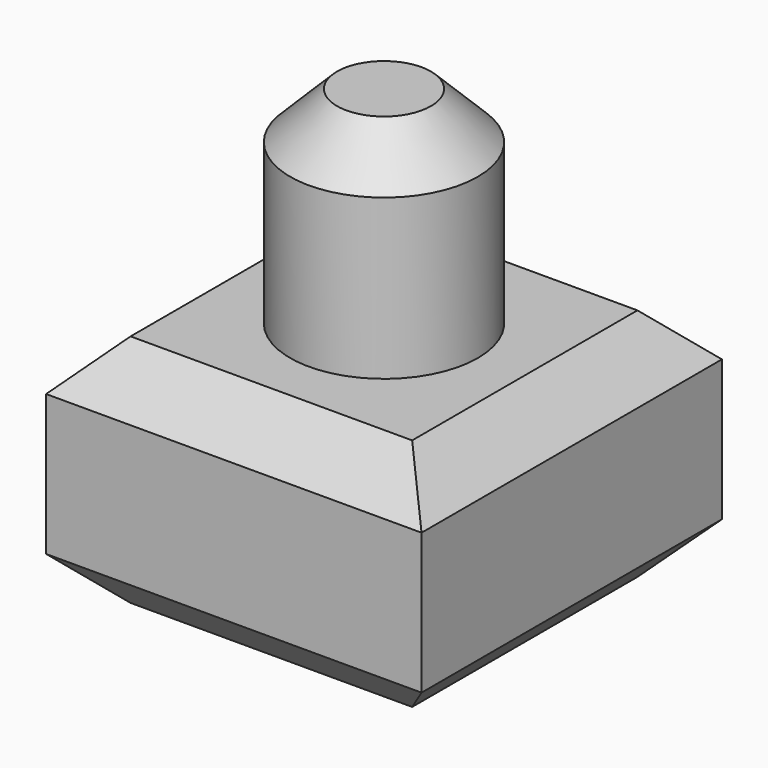
from build123d import *

# Parameters (mm, degrees)
F0_W     = 40
F0_H     = 40
F0_R     = 10
F1_DEPTH = 25
F2_DEPTH = 47
F3_SIZE  = 5


with BuildPart() as f1:
    # F0 (on Top) → F1 (new body)
    with BuildSketch(Plane.XY):
        Rectangle(F0_W, F0_H)
        Circle(F0_R, mode=Mode.SUBTRACT)
    extrude(amount=F1_DEPTH)

    # F0 (on Top) → F2 (join)
    with BuildSketch(Plane.XY):
        Circle(F0_R)
    extrude(amount=F2_DEPTH)

    # F3
    f3_edges = [f1.edges().sort_by_distance(p)[0] for p in [
        (0, 20, 25),
        (20, 0, 25),
        (0, -20, 0),
        (20, 0, 0),
        (0, 20, 0),
        (-20, 0, 0),
        (0, -20, 25),
        (-20, 0, 25),
        (-10, 0, 47),
    ]]
    chamfer(f3_edges, length=F3_SIZE)


solid = f1.part
